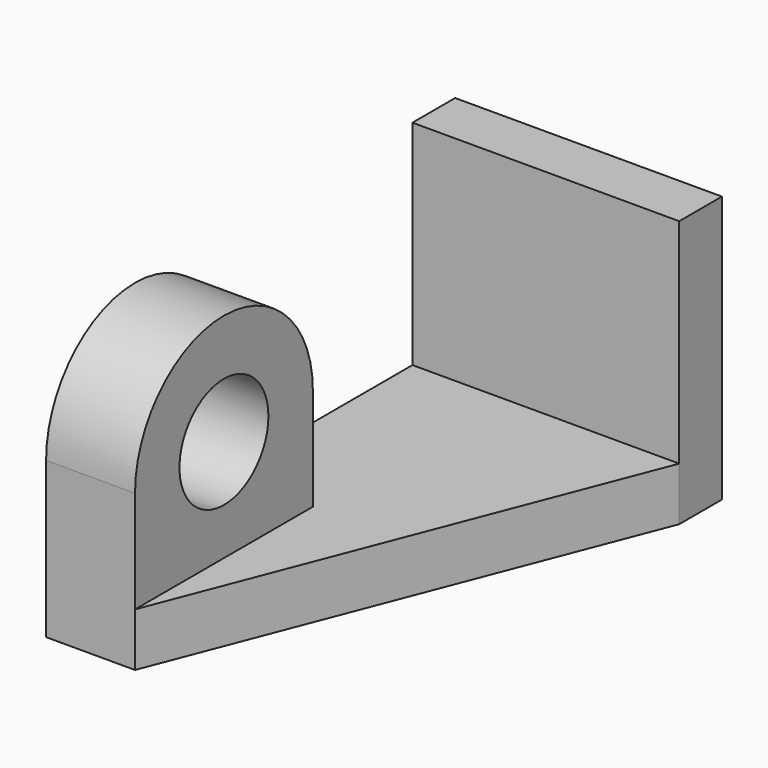
from build123d import *

# Parameters (mm, degrees)
F0_W      = 1524
F0_H      = 1524
F1_DEPTH  = 304.8
F2_W      = 1524
F2_H      = 304.8
F3_DEPTH  = 2921
F4_W      = 508
F4_H      = 1270
F5_DEPTH  = 584.2
F7_DEPTH  = 508
F8_R      = 317.5
F9_DEPTH  = 1529.08
F11_DEPTH = 2491.74


with BuildPart() as f1:
    # F0 (on Front) → F1 (new body)
    with BuildSketch(Plane.XZ):
        Rectangle(F0_W, F0_H)
    extrude(amount=F1_DEPTH)

    # F2 (on face) → F3 (join)
    with BuildSketch(Plane(origin=(0, 0, 0), x_dir=(-1, 0, 0), z_dir=(0, 1, 0))):
        with Locations((0, -609.6)):
            Rectangle(F2_W, F2_H)
    extrude(amount=-F3_DEPTH)

    # F4 (on face) → F5 (join)
    with BuildSketch(Plane.XY.offset(-457.2)):
        with Locations((-508, -2286)):
            Rectangle(F4_W, F4_H)
    extrude(amount=F5_DEPTH)

    # F6 (on face) → F7 (join)
    with BuildSketch(Plane.YZ.offset(-254)):
        with BuildLine():
            Line((-2921, 127), (-1651, 127))
            ThreePointArc((-1651, 127), (-2286, 762), (-2921, 127))
        make_face()
    extrude(amount=-F7_DEPTH)

    # F8 (on face) → F9 (cut)
    with BuildSketch(Plane.YZ.offset(-254)):
        with Locations((-2286, 127)):
            Circle(F8_R)
    extrude(amount=-F9_DEPTH, mode=Mode.SUBTRACT)

    # F10 (on face) → F11 (cut)
    with BuildSketch(Plane.XY.offset(-457.2)):
        Polygon((762, -304.8), (-254, -2921), (762, -2921), align=None)
    extrude(amount=-F11_DEPTH, mode=Mode.SUBTRACT)


solid = f1.part
